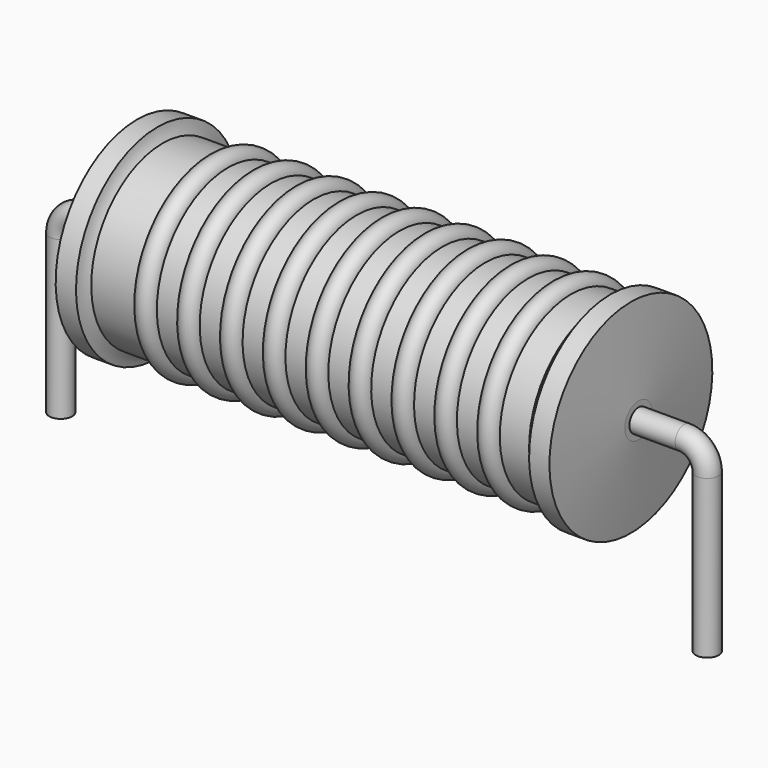
from build123d import *

# Parameters (mm, degrees)
SKETCH_R = 0.45


with BuildPart() as revolution:
    # Sketch002 → Revolution (revolve)
    with BuildSketch(Plane.XZ):
        with BuildLine():
            Line((3, 8.1), (3.8, 8.1))
            ThreePointArc((3.8, 8.1), (3.870924, 7.838882), (3.998, 7.6))
            Line((3.998, 7.6), (21.2, 7.6))
            ThreePointArc((21.2, 7.6), (21.425765, 7.829388), (21.6, 8.1))
            Line((21.6, 8.1), (22.4, 8.1))
            ThreePointArc((22.7, 4.775), (22.555904, 6.438033), (22.4, 8.1))
            Line((22.7, 4.1), (22.7, 4.775))
            Line((2.7, 4.1), (22.7, 4.1))
            Line((2.7, 4.1), (2.7, 4.775))
            ThreePointArc((3, 8.1), (2.844096, 6.438033), (2.7, 4.775))
        make_face()
    revolve(axis=Axis((2.7, 0, 4.1), (1, 0, 0)))


with BuildPart() as sweep_body:
    # Sweep: sweep along a path in Sketch001
    with BuildLine(Plane.XZ) as sweep_path:
        Line((0, -3), (0, 3.2))
        ThreePointArc((0, 3.2), (0.263607, 3.836399), (0.900008, 4.1))
        Line((0.900008, 4.1), (24.5, 4.1))
        ThreePointArc((24.5, 4.1), (25.136396, 3.836396), (25.4, 3.2))
        Line((25.4, 3.2), (25.4, -3))
    # Sketch → Sweep (sweep)
    with BuildSketch(Plane.XY.offset(-2)):
        Circle(SKETCH_R)
    sweep(path=sweep_path.line)


with BuildPart() as revolution001:
    # Sketch003 → Revolution001 (revolve)
    with BuildSketch(Plane.XZ):
        with BuildLine():
            ThreePointArc((6.584211, 7.52), (6.163158, 7.941053), (5.742105, 7.52))
            Line((4.9, 7.52), (5.742105, 7.52))
            Line((4.9, 7.52), (4.9, 6.72))
            Line((4.9, 6.72), (20.9, 6.72))
            Line((20.9, 6.72), (20.9, 7.52))
            Line((20.057895, 7.52), (20.9, 7.52))
            ThreePointArc((20.057895, 7.52), (19.636842, 7.941053), (19.215789, 7.52))
            Line((18.373684, 7.52), (19.215789, 7.52))
            ThreePointArc((18.373684, 7.52), (17.952632, 7.941053), (17.531579, 7.52))
            Line((16.689474, 7.52), (17.531579, 7.52))
            ThreePointArc((16.689474, 7.52), (16.268421, 7.941053), (15.847368, 7.52))
            Line((15.005263, 7.52), (15.847368, 7.52))
            ThreePointArc((15.005263, 7.52), (14.584211, 7.941053), (14.163158, 7.52))
            Line((13.321053, 7.52), (14.163158, 7.52))
            ThreePointArc((13.321053, 7.52), (12.9, 7.941053), (12.478947, 7.52))
            Line((11.636842, 7.52), (12.478947, 7.52))
            ThreePointArc((11.636842, 7.52), (11.215789, 7.941053), (10.794737, 7.52))
            Line((9.952632, 7.52), (10.794737, 7.52))
            ThreePointArc((9.952632, 7.52), (9.531579, 7.941053), (9.110526, 7.52))
            Line((8.268421, 7.52), (9.110526, 7.52))
            ThreePointArc((8.268421, 7.52), (7.847368, 7.941053), (7.426316, 7.52))
            Line((6.584211, 7.52), (7.426316, 7.52))
        make_face()
    revolve(axis=Axis((3.2, 0, 4.1), (1, 0, 0)))


solid = Compound([revolution.part, sweep_body.part, revolution001.part])
